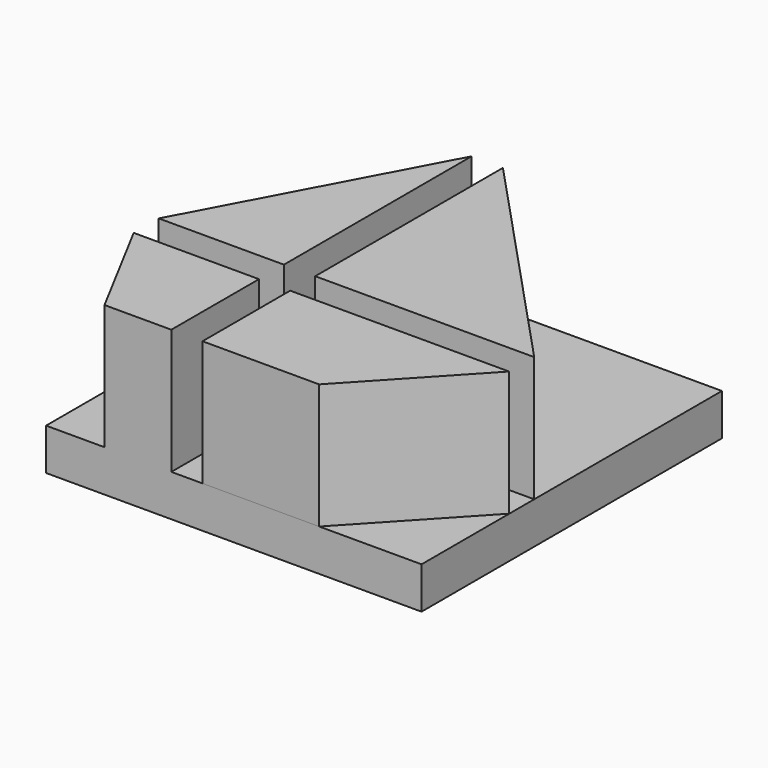
from build123d import *

# Parameters (mm, degrees)
F0_W     = 38.1
F0_H     = 38.1
F1_DEPTH = 4.233333
F3_DEPTH = 12.7


with BuildPart() as f1:
    # F0 (on Top) → F1 (new body)
    with BuildSketch(Plane.XY):
        with Locations((0, 6.35)):
            Rectangle(F0_W, F0_H)
    extrude(amount=F1_DEPTH)

    # F2 (on face) → F3 (join)
    with BuildSketch(Plane.XY.offset(4.233333)):
        Polygon((-19.05, 1.591235), (-6.35, 1.591235), (-6.35, 25.403735), align=None)
        Polygon((-6.336117, -1.583765), (-19.051992, -1.583765), (-13.123333, -12.7), (-6.341533, -12.7), align=None)
        Polygon((19.05, 1.59169), (-3.175, 25.40419), (-3.175, 1.59169), align=None)
        Polygon((19.035951, -1.58331), (-3.175, -1.58331), (-3.175, -12.7), (8.661397, -12.707891), align=None)
    extrude(amount=F3_DEPTH)


solid = f1.part
